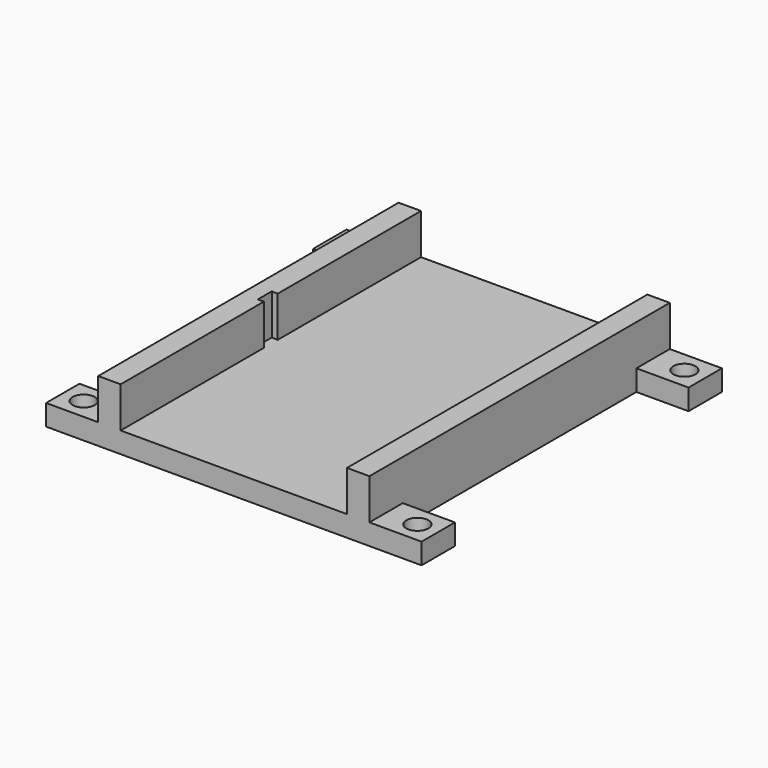
from build123d import *

# Parameters (mm, degrees)
PAD_DEPTH       = 5
SKETCH001_W     = 65
SKETCH001_H     = 90
PAD001_DEPTH    = 9.75
SKETCH002_W     = 54.25
SKETCH002_H     = 90
POCKET_DEPTH    = 9.75
POCKET001_DEPTH = 9.75
SKETCH004_R     = 2.65
POCKET002_DEPTH = 5


with BuildPart() as part:
    # Sketch → Pad (new body)
    with BuildSketch(Plane.XY):
        Polygon((-32.5, 35), (-45, 35), (-45, 45), (45, 45), (45, 35), (32.5, 35), (32.5, -35), (45, -35), (45, -45), (-45, -45), (-45, -35), (-32.5, -35), align=None)
    extrude(amount=PAD_DEPTH)

    # Sketch001 (on Face14 of Pad) → Pad001 (join)
    with BuildSketch(Plane.XY.offset(5)):
        Rectangle(SKETCH001_W, SKETCH001_H)
    extrude(amount=PAD001_DEPTH)

    # Sketch002 (on Face19 of Pad001) → Pocket (cut)
    with BuildSketch(Plane.XY.offset(14.75)):
        Rectangle(SKETCH002_W, SKETCH002_H)
    extrude(amount=-POCKET_DEPTH, mode=Mode.SUBTRACT)

    # Sketch003 (on Face19 of Pocket) → Pocket001 (cut)
    with BuildSketch(Plane.XY.offset(14.75)):
        Polygon((-27.125, -2.05), (-28.575, -2.125), (-28.575, 2.125), (-27.125, 2.05), align=None)
    extrude(amount=-POCKET001_DEPTH, mode=Mode.SUBTRACT)

    # Sketch004 (on Face16 of Pocket001) → Pocket002 (cut)
    with BuildSketch(Plane.XY.offset(5)):
        with Locations((-40, 40)):
            Circle(SKETCH004_R)
        with Locations((40, 40)):
            Circle(SKETCH004_R)
        with Locations((40, -40)):
            Circle(SKETCH004_R)
        with Locations((-40, -40)):
            Circle(SKETCH004_R)
    extrude(amount=-POCKET002_DEPTH, mode=Mode.SUBTRACT)


solid = part.part
